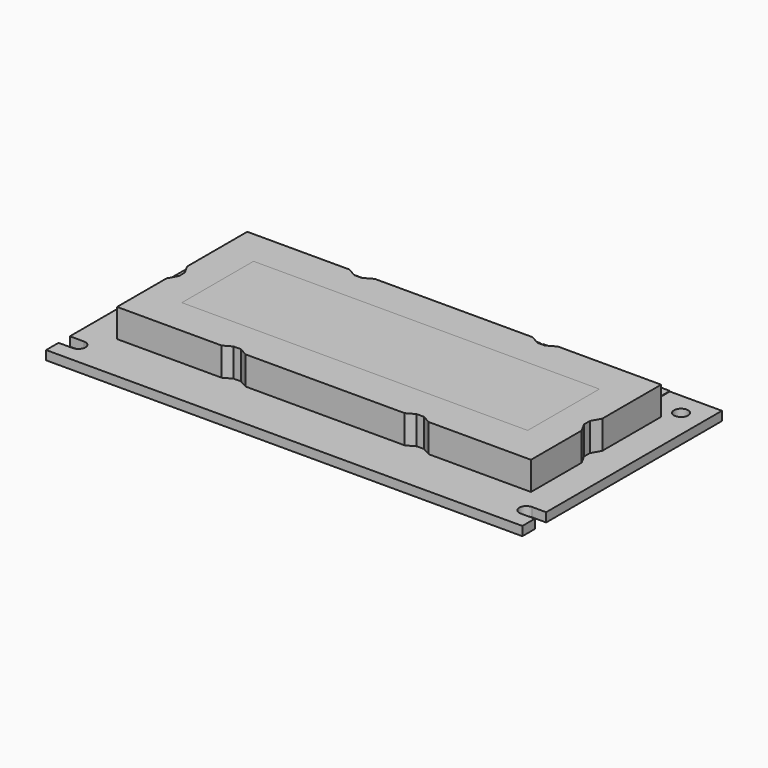
from build123d import *

# Parameters (mm, degrees)
SKETCH_R               = 1.25
SKETCH_R_2             = 0.5
PAD_DEPTH              = 1.6
BOX020_W               = 61
BOX020_H               = 15.8
BOX020_DEPTH           = 2
BOX019_W               = 61
BOX019_H               = 15.8
BOX019_DEPTH           = 2
BOX003_W               = 5
BOX003_H               = 5
BOX003_DEPTH           = 5
BOX003_PLACEMENT_ANGLE = 29
BOX002_W               = 5
BOX002_H               = 5
BOX002_DEPTH           = 5
BOX002_PLACEMENT_ANGLE = 61
BOX001_W               = 5
BOX001_H               = 5
BOX001_DEPTH           = 5
BOX009_W               = 5
BOX009_H               = 5
BOX009_DEPTH           = 5
BOX009_PLACEMENT_ANGLE = 29
BOX008_W               = 5
BOX008_H               = 5
BOX008_DEPTH           = 5
BOX008_PLACEMENT_ANGLE = 61
BOX007_W               = 5
BOX007_H               = 5
BOX007_DEPTH           = 5
CUT005_PLACEMENT_ANGLE = 90
BOX018_W               = 5
BOX018_H               = 5
BOX018_DEPTH           = 5
BOX018_PLACEMENT_ANGLE = 29
BOX017_W               = 5
BOX017_H               = 5
BOX017_DEPTH           = 5
BOX017_PLACEMENT_ANGLE = 61
BOX016_W               = 5
BOX016_H               = 5
BOX016_DEPTH           = 5
CUT011_PLACEMENT_ANGLE = 90
BOX006_W               = 5
BOX006_H               = 5
BOX006_DEPTH           = 5
BOX006_PLACEMENT_ANGLE = 29
BOX005_W               = 5
BOX005_H               = 5
BOX005_DEPTH           = 5
BOX005_PLACEMENT_ANGLE = 61
BOX004_W               = 5
BOX004_H               = 5
BOX004_DEPTH           = 5
CUT003_PLACEMENT_ANGLE = 180
BOX012_W               = 5
BOX012_H               = 5
BOX012_DEPTH           = 5
BOX012_PLACEMENT_ANGLE = 29
BOX011_W               = 5
BOX011_H               = 5
BOX011_DEPTH           = 5
BOX011_PLACEMENT_ANGLE = 61
BOX010_W               = 5
BOX010_H               = 5
BOX010_DEPTH           = 5
CUT007_PLACEMENT_ANGLE = -90
BOX015_W               = 5
BOX015_H               = 5
BOX015_DEPTH           = 5
BOX015_PLACEMENT_ANGLE = 29
BOX014_W               = 5
BOX014_H               = 5
BOX014_DEPTH           = 5
BOX014_PLACEMENT_ANGLE = 61
BOX013_W               = 5
BOX013_H               = 5
BOX013_DEPTH           = 5
CUT009_PLACEMENT_ANGLE = -90
BOX_W                  = 73
BOX_H                  = 28.7
BOX_DEPTH              = 5
CYLINDER002_R          = 0.5
CYLINDER002_DEPTH      = 0.1
BOX021_W               = 2
BOX021_H               = 2.54
BOX021_DEPTH           = 0.1
CYLINDER001_R          = 0.5
CYLINDER001_DEPTH      = 0.1
CYLINDER_R             = 1
CYLINDER_DEPTH         = 0.1
CYLINDER005_R          = 0.5
CYLINDER005_DEPTH      = 0.1
BOX022_W               = 2
BOX022_H               = 2.54
BOX022_DEPTH           = 0.1
CYLINDER004_R          = 0.5
CYLINDER004_DEPTH      = 0.1
CYLINDER003_R          = 1
CYLINDER003_DEPTH      = 0.1
CYLINDER008_R          = 0.5
CYLINDER008_DEPTH      = 0.1
BOX023_W               = 2
BOX023_H               = 2.54
BOX023_DEPTH           = 0.1
CYLINDER007_R          = 0.5
CYLINDER007_DEPTH      = 0.1
CYLINDER006_R          = 1
CYLINDER006_DEPTH      = 0.1
CYLINDER011_R          = 0.5
CYLINDER011_DEPTH      = 0.1
BOX024_W               = 2
BOX024_H               = 2.54
BOX024_DEPTH           = 0.1
CYLINDER010_R          = 0.5
CYLINDER010_DEPTH      = 0.1
CYLINDER009_R          = 1
CYLINDER009_DEPTH      = 0.1
CYLINDER014_R          = 0.5
CYLINDER014_DEPTH      = 0.1
BOX025_W               = 2
BOX025_H               = 2.54
BOX025_DEPTH           = 0.1
CYLINDER013_R          = 0.5
CYLINDER013_DEPTH      = 0.1
CYLINDER012_R          = 1
CYLINDER012_DEPTH      = 0.1
CYLINDER017_R          = 0.5
CYLINDER017_DEPTH      = 0.1
BOX026_W               = 2
BOX026_H               = 2.54
BOX026_DEPTH           = 0.1
CYLINDER016_R          = 0.5
CYLINDER016_DEPTH      = 0.1
CYLINDER015_R          = 1
CYLINDER015_DEPTH      = 0.1
CYLINDER020_R          = 0.5
CYLINDER020_DEPTH      = 0.1
BOX027_W               = 2
BOX027_H               = 2.54
BOX027_DEPTH           = 0.1
CYLINDER019_R          = 0.5
CYLINDER019_DEPTH      = 0.1
CYLINDER018_R          = 1
CYLINDER018_DEPTH      = 0.1
CYLINDER023_R          = 0.5
CYLINDER023_DEPTH      = 0.1
BOX028_W               = 2
BOX028_H               = 2.54
BOX028_DEPTH           = 0.1
CYLINDER022_R          = 0.5
CYLINDER022_DEPTH      = 0.1
CYLINDER021_R          = 1
CYLINDER021_DEPTH      = 0.1
CYLINDER026_R          = 0.5
CYLINDER026_DEPTH      = 0.1
BOX029_W               = 2
BOX029_H               = 2.54
BOX029_DEPTH           = 0.1
CYLINDER025_R          = 0.5
CYLINDER025_DEPTH      = 0.1
CYLINDER024_R          = 1
CYLINDER024_DEPTH      = 0.1
CYLINDER029_R          = 0.5
CYLINDER029_DEPTH      = 0.1
BOX030_W               = 2
BOX030_H               = 2.54
BOX030_DEPTH           = 0.1
CYLINDER028_R          = 0.5
CYLINDER028_DEPTH      = 0.1
CYLINDER027_R          = 1
CYLINDER027_DEPTH      = 0.1
CYLINDER032_R          = 0.5
CYLINDER032_DEPTH      = 0.1
BOX031_W               = 2
BOX031_H               = 2.54
BOX031_DEPTH           = 0.1
CYLINDER031_R          = 0.5
CYLINDER031_DEPTH      = 0.1
CYLINDER030_R          = 1
CYLINDER030_DEPTH      = 0.1
CYLINDER035_R          = 0.5
CYLINDER035_DEPTH      = 0.1
BOX032_W               = 2
BOX032_H               = 2.54
BOX032_DEPTH           = 0.1
CYLINDER034_R          = 0.5
CYLINDER034_DEPTH      = 0.1
CYLINDER033_R          = 1
CYLINDER033_DEPTH      = 0.1
CYLINDER038_R          = 0.5
CYLINDER038_DEPTH      = 0.1
BOX033_W               = 2
BOX033_H               = 2.54
BOX033_DEPTH           = 0.1
CYLINDER037_R          = 0.5
CYLINDER037_DEPTH      = 0.1
CYLINDER036_R          = 1
CYLINDER036_DEPTH      = 0.1
CYLINDER041_R          = 0.5
CYLINDER041_DEPTH      = 0.1
BOX034_W               = 2
BOX034_H               = 2.54
BOX034_DEPTH           = 0.1
CYLINDER040_R          = 0.5
CYLINDER040_DEPTH      = 0.1
CYLINDER039_R          = 1
CYLINDER039_DEPTH      = 0.1
BOX035_W               = 14
BOX035_H               = 2
BOX035_DEPTH           = 4.4
BOX036_W               = 14
BOX036_H               = 2
BOX036_DEPTH           = 4.4
BOX037_W               = 14
BOX037_H               = 2
BOX037_DEPTH           = 4.4
BOX038_W               = 14
BOX038_H               = 2
BOX038_DEPTH           = 4.4


with BuildPart() as body:
    # Sketch → Pad (new body)
    with BuildSketch(Plane.XY):
        with BuildLine():
            Line((-40.8, 2.54), (43.2, 2.54))
            Line((43.2, 2.54), (43.2, -36.21))
            Line((40.7, -36.21), (43.2, -36.21))
            ThreePointArc((40.7, -36.21), (39.45, -37.46), (40.7, -38.71))
            Line((43.2, -38.71), (40.7, -38.71))
            Line((43.2, -41.46), (43.2, -38.71))
            Line((-40.8, -41.46), (43.2, -41.46))
            Line((-40.8, -38.71), (-40.8, -41.46))
            Line((-38.3, -38.71), (-40.8, -38.71))
            ThreePointArc((-38.3, -38.71), (-37.05, -37.46), (-38.3, -36.21))
            Line((-40.8, -36.21), (-38.3, -36.21))
            Line((-40.8, 2.54), (-40.8, -36.21))
        make_face()
        with Locations((39.2, -1.46)):
            Circle(SKETCH_R, mode=Mode.SUBTRACT)
        with Locations((-36.8, -1.46)):
            Circle(SKETCH_R, mode=Mode.SUBTRACT)
        Circle(SKETCH_R_2, mode=Mode.SUBTRACT)
        with Locations((2.54, 0)):
            Circle(SKETCH_R_2, mode=Mode.SUBTRACT)
        with Locations((5.08, 0)):
            Circle(SKETCH_R_2, mode=Mode.SUBTRACT)
        with Locations((7.62, 0)):
            Circle(SKETCH_R_2, mode=Mode.SUBTRACT)
        with Locations((10.16, 0)):
            Circle(SKETCH_R_2, mode=Mode.SUBTRACT)
        with Locations((12.7, 0)):
            Circle(SKETCH_R_2, mode=Mode.SUBTRACT)
        with Locations((15.24, 0)):
            Circle(SKETCH_R_2, mode=Mode.SUBTRACT)
        with Locations((17.78, 0)):
            Circle(SKETCH_R_2, mode=Mode.SUBTRACT)
        with Locations((22.86, 0)):
            Circle(SKETCH_R_2, mode=Mode.SUBTRACT)
        with Locations((25.4, 0)):
            Circle(SKETCH_R_2, mode=Mode.SUBTRACT)
        with Locations((20.32, 0)):
            Circle(SKETCH_R_2, mode=Mode.SUBTRACT)
        with Locations((27.94, 0)):
            Circle(SKETCH_R_2, mode=Mode.SUBTRACT)
        with Locations((30.48, 0)):
            Circle(SKETCH_R_2, mode=Mode.SUBTRACT)
        with Locations((33.02, 0)):
            Circle(SKETCH_R_2, mode=Mode.SUBTRACT)
    extrude(amount=PAD_DEPTH)


with BuildPart() as body_1:
    # Body placement: moved
    add(body.part.moved(Location((0, 0, 4.4))))


with BuildPart() as led_active_area:
    # Box020 → Box020 (new body)
    with BuildSketch(Plane(origin=(-29.02, -26.25, 9), x_dir=(1, 0, 0), z_dir=(0, 0, 1))):
        with Locations((30.5, 7.9)):
            Rectangle(BOX020_W, BOX020_H)
    extrude(amount=BOX020_DEPTH)


with BuildPart() as led_active_area_cut_out:
    # Box019 → Box019 (new body)
    with BuildSketch(Plane(origin=(-29.02, -26.25, 4.6), x_dir=(1, 0, 0), z_dir=(0, 0, 1))):
        with Locations((30.5, 7.9)):
            Rectangle(BOX019_W, BOX019_H)
    extrude(amount=BOX019_DEPTH)


with BuildPart() as kub003:
    # Box003 → Box003 (new body)
    with BuildSketch(Plane.XY):
        with Locations((2.5, 2.5)):
            Rectangle(BOX003_W, BOX003_H)
    extrude(amount=BOX003_DEPTH)


with BuildPart() as kub003_1:
    # Box003 placement: moved
    add(kub003.part.moved(Location((5, 7, 1.6))).rotate(Axis((5, 7, 1.6), (0, 0, 1)), BOX003_PLACEMENT_ANGLE))


with BuildPart() as kub002:
    # Box002 → Box002 (new body)
    with BuildSketch(Plane.XY):
        with Locations((2.5, 2.5)):
            Rectangle(BOX002_W, BOX002_H)
    extrude(amount=BOX002_DEPTH)


with BuildPart() as kub002_1:
    # Box002 placement: moved
    add(kub002.part.moved(Location((7, -1, 1.6))).rotate(Axis((7, -1, 1.6), (0, 0, 1)), BOX002_PLACEMENT_ANGLE))


with BuildPart() as cut001:
    # Box001 → Box001 (new body)
    with BuildSketch(Plane(origin=(0, 4, 1.6), x_dir=(1, 0, 0), z_dir=(0, 0, 1))):
        with Locations((2.5, 2.5)):
            Rectangle(BOX001_W, BOX001_H)
    extrude(amount=BOX001_DEPTH)

    # Cut: cut Kub002
    add(kub002_1.part, mode=Mode.SUBTRACT)

    # Cut001: cut Kub003
    add(kub003_1.part, mode=Mode.SUBTRACT)


with BuildPart() as cut001_1:
    # Cut001 placement: moved
    add(cut001.part.moved(Location((-39.3, -26, 0))))


with BuildPart() as kub009:
    # Box009 → Box009 (new body)
    with BuildSketch(Plane.XY):
        with Locations((2.5, 2.5)):
            Rectangle(BOX009_W, BOX009_H)
    extrude(amount=BOX009_DEPTH)


with BuildPart() as kub009_1:
    # Box009 placement: moved
    add(kub009.part.moved(Location((5, 7, 1.6))).rotate(Axis((5, 7, 1.6), (0, 0, 1)), BOX009_PLACEMENT_ANGLE))


with BuildPart() as kub008:
    # Box008 → Box008 (new body)
    with BuildSketch(Plane.XY):
        with Locations((2.5, 2.5)):
            Rectangle(BOX008_W, BOX008_H)
    extrude(amount=BOX008_DEPTH)


with BuildPart() as kub008_1:
    # Box008 placement: moved
    add(kub008.part.moved(Location((7, -1, 1.6))).rotate(Axis((7, -1, 1.6), (0, 0, 1)), BOX008_PLACEMENT_ANGLE))


with BuildPart() as cut005:
    # Box007 → Box007 (new body)
    with BuildSketch(Plane(origin=(0, 4, 1.6), x_dir=(1, 0, 0), z_dir=(0, 0, 1))):
        with Locations((2.5, 2.5)):
            Rectangle(BOX007_W, BOX007_H)
    extrude(amount=BOX007_DEPTH)

    # Cut004: cut Kub008
    add(kub008_1.part, mode=Mode.SUBTRACT)

    # Cut005: cut Kub009
    add(kub009_1.part, mode=Mode.SUBTRACT)


with BuildPart() as cut005_1:
    # Cut005 placement: moved
    add(cut005.part.moved(Location((-8.3, -37, 0))).rotate(Axis((-8.3, -37, 0), (0, 0, 1)), CUT005_PLACEMENT_ANGLE))


with BuildPart() as kub018:
    # Box018 → Box018 (new body)
    with BuildSketch(Plane.XY):
        with Locations((2.5, 2.5)):
            Rectangle(BOX018_W, BOX018_H)
    extrude(amount=BOX018_DEPTH)


with BuildPart() as kub018_1:
    # Box018 placement: moved
    add(kub018.part.moved(Location((5, 7, 1.6))).rotate(Axis((5, 7, 1.6), (0, 0, 1)), BOX018_PLACEMENT_ANGLE))


with BuildPart() as kub017:
    # Box017 → Box017 (new body)
    with BuildSketch(Plane.XY):
        with Locations((2.5, 2.5)):
            Rectangle(BOX017_W, BOX017_H)
    extrude(amount=BOX017_DEPTH)


with BuildPart() as kub017_1:
    # Box017 placement: moved
    add(kub017.part.moved(Location((7, -1, 1.6))).rotate(Axis((7, -1, 1.6), (0, 0, 1)), BOX017_PLACEMENT_ANGLE))


with BuildPart() as cut011:
    # Box016 → Box016 (new body)
    with BuildSketch(Plane(origin=(0, 4, 1.6), x_dir=(1, 0, 0), z_dir=(0, 0, 1))):
        with Locations((2.5, 2.5)):
            Rectangle(BOX016_W, BOX016_H)
    extrude(amount=BOX016_DEPTH)

    # Cut010: cut Kub017
    add(kub017_1.part, mode=Mode.SUBTRACT)

    # Cut011: cut Kub018
    add(kub018_1.part, mode=Mode.SUBTRACT)


with BuildPart() as cut011_1:
    # Cut011 placement: moved
    add(cut011.part.moved(Location((24, -37, 0))).rotate(Axis((24, -37, 0), (0, 0, 1)), CUT011_PLACEMENT_ANGLE))


with BuildPart() as kub006:
    # Box006 → Box006 (new body)
    with BuildSketch(Plane.XY):
        with Locations((2.5, 2.5)):
            Rectangle(BOX006_W, BOX006_H)
    extrude(amount=BOX006_DEPTH)


with BuildPart() as kub006_1:
    # Box006 placement: moved
    add(kub006.part.moved(Location((5, 7, 1.6))).rotate(Axis((5, 7, 1.6), (0, 0, 1)), BOX006_PLACEMENT_ANGLE))


with BuildPart() as kub005:
    # Box005 → Box005 (new body)
    with BuildSketch(Plane.XY):
        with Locations((2.5, 2.5)):
            Rectangle(BOX005_W, BOX005_H)
    extrude(amount=BOX005_DEPTH)


with BuildPart() as kub005_1:
    # Box005 placement: moved
    add(kub005.part.moved(Location((7, -1, 1.6))).rotate(Axis((7, -1, 1.6), (0, 0, 1)), BOX005_PLACEMENT_ANGLE))


with BuildPart() as cut003:
    # Box004 → Box004 (new body)
    with BuildSketch(Plane(origin=(0, 4, 1.6), x_dir=(1, 0, 0), z_dir=(0, 0, 1))):
        with Locations((2.5, 2.5)):
            Rectangle(BOX004_W, BOX004_H)
    extrude(amount=BOX004_DEPTH)

    # Cut002: cut Kub005
    add(kub005_1.part, mode=Mode.SUBTRACT)

    # Cut003: cut Kub006
    add(kub006_1.part, mode=Mode.SUBTRACT)


with BuildPart() as cut003_1:
    # Cut003 placement: moved
    add(cut003.part.moved(Location((41.9, -13, 0))).rotate(Axis((41.9, -13, 0), (0, 0, 1)), CUT003_PLACEMENT_ANGLE))


with BuildPart() as kub012:
    # Box012 → Box012 (new body)
    with BuildSketch(Plane.XY):
        with Locations((2.5, 2.5)):
            Rectangle(BOX012_W, BOX012_H)
    extrude(amount=BOX012_DEPTH)


with BuildPart() as kub012_1:
    # Box012 placement: moved
    add(kub012.part.moved(Location((5, 7, 1.6))).rotate(Axis((5, 7, 1.6), (0, 0, 1)), BOX012_PLACEMENT_ANGLE))


with BuildPart() as kub011:
    # Box011 → Box011 (new body)
    with BuildSketch(Plane.XY):
        with Locations((2.5, 2.5)):
            Rectangle(BOX011_W, BOX011_H)
    extrude(amount=BOX011_DEPTH)


with BuildPart() as kub011_1:
    # Box011 placement: moved
    add(kub011.part.moved(Location((7, -1, 1.6))).rotate(Axis((7, -1, 1.6), (0, 0, 1)), BOX011_PLACEMENT_ANGLE))


with BuildPart() as cut007:
    # Box010 → Box010 (new body)
    with BuildSketch(Plane(origin=(0, 4, 1.6), x_dir=(1, 0, 0), z_dir=(0, 0, 1))):
        with Locations((2.5, 2.5)):
            Rectangle(BOX010_W, BOX010_H)
    extrude(amount=BOX010_DEPTH)

    # Cut006: cut Kub011
    add(kub011_1.part, mode=Mode.SUBTRACT)

    # Cut007: cut Kub012
    add(kub012_1.part, mode=Mode.SUBTRACT)


with BuildPart() as cut007_1:
    # Cut007 placement: moved
    add(cut007.part.moved(Location((11, 0, 0))).rotate(Axis((11, 0, 0), (0, 0, 1)), CUT007_PLACEMENT_ANGLE))


with BuildPart() as kub015:
    # Box015 → Box015 (new body)
    with BuildSketch(Plane.XY):
        with Locations((2.5, 2.5)):
            Rectangle(BOX015_W, BOX015_H)
    extrude(amount=BOX015_DEPTH)


with BuildPart() as kub015_1:
    # Box015 placement: moved
    add(kub015.part.moved(Location((5, 7, 1.6))).rotate(Axis((5, 7, 1.6), (0, 0, 1)), BOX015_PLACEMENT_ANGLE))


with BuildPart() as kub014:
    # Box014 → Box014 (new body)
    with BuildSketch(Plane.XY):
        with Locations((2.5, 2.5)):
            Rectangle(BOX014_W, BOX014_H)
    extrude(amount=BOX014_DEPTH)


with BuildPart() as kub014_1:
    # Box014 placement: moved
    add(kub014.part.moved(Location((7, -1, 1.6))).rotate(Axis((7, -1, 1.6), (0, 0, 1)), BOX014_PLACEMENT_ANGLE))


with BuildPart() as cut009:
    # Box013 → Box013 (new body)
    with BuildSketch(Plane(origin=(0, 4, 1.6), x_dir=(1, 0, 0), z_dir=(0, 0, 1))):
        with Locations((2.5, 2.5)):
            Rectangle(BOX013_W, BOX013_H)
    extrude(amount=BOX013_DEPTH)

    # Cut008: cut Kub014
    add(kub014_1.part, mode=Mode.SUBTRACT)

    # Cut009: cut Kub015
    add(kub015_1.part, mode=Mode.SUBTRACT)


with BuildPart() as cut009_1:
    # Cut009 placement: moved
    add(cut009.part.moved(Location((-21.3, 0, 0))).rotate(Axis((-21.3, 0, 0), (0, 0, 1)), CUT009_PLACEMENT_ANGLE))


with BuildPart() as cut018:
    # Box → Box (new body)
    with BuildSketch(Plane(origin=(-35.2, -32.81, 1.6), x_dir=(1, 0, 0), z_dir=(0, 0, 1))):
        with Locations((36.5, 14.35)):
            Rectangle(BOX_W, BOX_H)
    extrude(amount=BOX_DEPTH)

    # Cut012: cut Cut009
    add(cut009_1.part, mode=Mode.SUBTRACT)

    # Cut013: cut Cut007
    add(cut007_1.part, mode=Mode.SUBTRACT)

    # Cut014: cut Cut003
    add(cut003_1.part, mode=Mode.SUBTRACT)

    # Cut015: cut Cut011
    add(cut011_1.part, mode=Mode.SUBTRACT)

    # Cut016: cut Cut005
    add(cut005_1.part, mode=Mode.SUBTRACT)

    # Cut017: cut Cut001
    add(cut001_1.part, mode=Mode.SUBTRACT)

    # Cut018: cut LED active area cut out
    add(led_active_area_cut_out.part, mode=Mode.SUBTRACT)


with BuildPart() as cut018_1:
    # Cut018 placement: moved
    add(cut018.part.moved(Location((0, 0, 4.4))))


with BuildPart() as cylinder002:
    # Cylinder002 → Cylinder002 (new body)
    with BuildSketch(Plane.XY.offset(1.6)):
        Circle(CYLINDER002_R)
    extrude(amount=CYLINDER002_DEPTH)


with BuildPart() as cut020:
    # Box021 → Box021 (new body)
    with BuildSketch(Plane(origin=(-1, 0, 1.6), x_dir=(1, 0, 0), z_dir=(0, 0, 1))):
        with Locations((1, 1.27)):
            Rectangle(BOX021_W, BOX021_H)
    extrude(amount=BOX021_DEPTH)

    # Cut020: cut Cylinder002
    add(cylinder002.part, mode=Mode.SUBTRACT)


with BuildPart() as cylinder001:
    # Cylinder001 → Cylinder001 (new body)
    with BuildSketch(Plane.XY.offset(1.6)):
        Circle(CYLINDER001_R)
    extrude(amount=CYLINDER001_DEPTH)


with BuildPart() as fusion:
    # Cylinder → Cylinder (new body)
    with BuildSketch(Plane.XY.offset(1.6)):
        Circle(CYLINDER_R)
    extrude(amount=CYLINDER_DEPTH)

    # Cut019: cut Cylinder001
    add(cylinder001.part, mode=Mode.SUBTRACT)

    # Fusion: union Cut020
    add(cut020.part)


with BuildPart() as fusion_1:
    # Fusion placement: moved
    add(fusion.part.moved(Location((0, 0, 4.4))))


with BuildPart() as cylinder005:
    # Cylinder005 → Cylinder005 (new body)
    with BuildSketch(Plane.XY.offset(1.6)):
        Circle(CYLINDER005_R)
    extrude(amount=CYLINDER005_DEPTH)


with BuildPart() as cut022:
    # Box022 → Box022 (new body)
    with BuildSketch(Plane(origin=(-1, 0, 1.6), x_dir=(1, 0, 0), z_dir=(0, 0, 1))):
        with Locations((1, 1.27)):
            Rectangle(BOX022_W, BOX022_H)
    extrude(amount=BOX022_DEPTH)

    # Cut022: cut Cylinder005
    add(cylinder005.part, mode=Mode.SUBTRACT)


with BuildPart() as cylinder004:
    # Cylinder004 → Cylinder004 (new body)
    with BuildSketch(Plane.XY.offset(1.6)):
        Circle(CYLINDER004_R)
    extrude(amount=CYLINDER004_DEPTH)


with BuildPart() as fusion001:
    # Cylinder003 → Cylinder003 (new body)
    with BuildSketch(Plane.XY.offset(1.6)):
        Circle(CYLINDER003_R)
    extrude(amount=CYLINDER003_DEPTH)

    # Cut021: cut Cylinder004
    add(cylinder004.part, mode=Mode.SUBTRACT)

    # Fusion001: union Cut022
    add(cut022.part)


with BuildPart() as fusion001_1:
    # Fusion001 placement: moved
    add(fusion001.part.moved(Location((2.54, 0, 4.4))))


with BuildPart() as cylinder008:
    # Cylinder008 → Cylinder008 (new body)
    with BuildSketch(Plane.XY.offset(1.6)):
        Circle(CYLINDER008_R)
    extrude(amount=CYLINDER008_DEPTH)


with BuildPart() as cut024:
    # Box023 → Box023 (new body)
    with BuildSketch(Plane(origin=(-1, 0, 1.6), x_dir=(1, 0, 0), z_dir=(0, 0, 1))):
        with Locations((1, 1.27)):
            Rectangle(BOX023_W, BOX023_H)
    extrude(amount=BOX023_DEPTH)

    # Cut024: cut Cylinder008
    add(cylinder008.part, mode=Mode.SUBTRACT)


with BuildPart() as cylinder007:
    # Cylinder007 → Cylinder007 (new body)
    with BuildSketch(Plane.XY.offset(1.6)):
        Circle(CYLINDER007_R)
    extrude(amount=CYLINDER007_DEPTH)


with BuildPart() as fusion002:
    # Cylinder006 → Cylinder006 (new body)
    with BuildSketch(Plane.XY.offset(1.6)):
        Circle(CYLINDER006_R)
    extrude(amount=CYLINDER006_DEPTH)

    # Cut023: cut Cylinder007
    add(cylinder007.part, mode=Mode.SUBTRACT)

    # Fusion002: union Cut024
    add(cut024.part)


with BuildPart() as fusion002_1:
    # Fusion002 placement: moved
    add(fusion002.part.moved(Location((5.08, 0, 4.4))))


with BuildPart() as cylinder011:
    # Cylinder011 → Cylinder011 (new body)
    with BuildSketch(Plane.XY.offset(1.6)):
        Circle(CYLINDER011_R)
    extrude(amount=CYLINDER011_DEPTH)


with BuildPart() as cut026:
    # Box024 → Box024 (new body)
    with BuildSketch(Plane(origin=(-1, 0, 1.6), x_dir=(1, 0, 0), z_dir=(0, 0, 1))):
        with Locations((1, 1.27)):
            Rectangle(BOX024_W, BOX024_H)
    extrude(amount=BOX024_DEPTH)

    # Cut026: cut Cylinder011
    add(cylinder011.part, mode=Mode.SUBTRACT)


with BuildPart() as cylinder010:
    # Cylinder010 → Cylinder010 (new body)
    with BuildSketch(Plane.XY.offset(1.6)):
        Circle(CYLINDER010_R)
    extrude(amount=CYLINDER010_DEPTH)


with BuildPart() as fusion003:
    # Cylinder009 → Cylinder009 (new body)
    with BuildSketch(Plane.XY.offset(1.6)):
        Circle(CYLINDER009_R)
    extrude(amount=CYLINDER009_DEPTH)

    # Cut025: cut Cylinder010
    add(cylinder010.part, mode=Mode.SUBTRACT)

    # Fusion003: union Cut026
    add(cut026.part)


with BuildPart() as fusion003_1:
    # Fusion003 placement: moved
    add(fusion003.part.moved(Location((7.62, 0, 4.4))))


with BuildPart() as cylinder014:
    # Cylinder014 → Cylinder014 (new body)
    with BuildSketch(Plane.XY.offset(1.6)):
        Circle(CYLINDER014_R)
    extrude(amount=CYLINDER014_DEPTH)


with BuildPart() as cut028:
    # Box025 → Box025 (new body)
    with BuildSketch(Plane(origin=(-1, 0, 1.6), x_dir=(1, 0, 0), z_dir=(0, 0, 1))):
        with Locations((1, 1.27)):
            Rectangle(BOX025_W, BOX025_H)
    extrude(amount=BOX025_DEPTH)

    # Cut028: cut Cylinder014
    add(cylinder014.part, mode=Mode.SUBTRACT)


with BuildPart() as cylinder013:
    # Cylinder013 → Cylinder013 (new body)
    with BuildSketch(Plane.XY.offset(1.6)):
        Circle(CYLINDER013_R)
    extrude(amount=CYLINDER013_DEPTH)


with BuildPart() as fusion004:
    # Cylinder012 → Cylinder012 (new body)
    with BuildSketch(Plane.XY.offset(1.6)):
        Circle(CYLINDER012_R)
    extrude(amount=CYLINDER012_DEPTH)

    # Cut027: cut Cylinder013
    add(cylinder013.part, mode=Mode.SUBTRACT)

    # Fusion004: union Cut028
    add(cut028.part)


with BuildPart() as fusion004_1:
    # Fusion004 placement: moved
    add(fusion004.part.moved(Location((10.16, 0, 4.4))))


with BuildPart() as cylinder017:
    # Cylinder017 → Cylinder017 (new body)
    with BuildSketch(Plane.XY.offset(1.6)):
        Circle(CYLINDER017_R)
    extrude(amount=CYLINDER017_DEPTH)


with BuildPart() as cut030:
    # Box026 → Box026 (new body)
    with BuildSketch(Plane(origin=(-1, 0, 1.6), x_dir=(1, 0, 0), z_dir=(0, 0, 1))):
        with Locations((1, 1.27)):
            Rectangle(BOX026_W, BOX026_H)
    extrude(amount=BOX026_DEPTH)

    # Cut030: cut Cylinder017
    add(cylinder017.part, mode=Mode.SUBTRACT)


with BuildPart() as cylinder016:
    # Cylinder016 → Cylinder016 (new body)
    with BuildSketch(Plane.XY.offset(1.6)):
        Circle(CYLINDER016_R)
    extrude(amount=CYLINDER016_DEPTH)


with BuildPart() as fusion005:
    # Cylinder015 → Cylinder015 (new body)
    with BuildSketch(Plane.XY.offset(1.6)):
        Circle(CYLINDER015_R)
    extrude(amount=CYLINDER015_DEPTH)

    # Cut029: cut Cylinder016
    add(cylinder016.part, mode=Mode.SUBTRACT)

    # Fusion005: union Cut030
    add(cut030.part)


with BuildPart() as fusion005_1:
    # Fusion005 placement: moved
    add(fusion005.part.moved(Location((12.7, 0, 4.4))))


with BuildPart() as cylinder020:
    # Cylinder020 → Cylinder020 (new body)
    with BuildSketch(Plane.XY.offset(1.6)):
        Circle(CYLINDER020_R)
    extrude(amount=CYLINDER020_DEPTH)


with BuildPart() as cut032:
    # Box027 → Box027 (new body)
    with BuildSketch(Plane(origin=(-1, 0, 1.6), x_dir=(1, 0, 0), z_dir=(0, 0, 1))):
        with Locations((1, 1.27)):
            Rectangle(BOX027_W, BOX027_H)
    extrude(amount=BOX027_DEPTH)

    # Cut032: cut Cylinder020
    add(cylinder020.part, mode=Mode.SUBTRACT)


with BuildPart() as cylinder019:
    # Cylinder019 → Cylinder019 (new body)
    with BuildSketch(Plane.XY.offset(1.6)):
        Circle(CYLINDER019_R)
    extrude(amount=CYLINDER019_DEPTH)


with BuildPart() as fusion006:
    # Cylinder018 → Cylinder018 (new body)
    with BuildSketch(Plane.XY.offset(1.6)):
        Circle(CYLINDER018_R)
    extrude(amount=CYLINDER018_DEPTH)

    # Cut031: cut Cylinder019
    add(cylinder019.part, mode=Mode.SUBTRACT)

    # Fusion006: union Cut032
    add(cut032.part)


with BuildPart() as fusion006_1:
    # Fusion006 placement: moved
    add(fusion006.part.moved(Location((15.24, 0, 4.4))))


with BuildPart() as cylinder023:
    # Cylinder023 → Cylinder023 (new body)
    with BuildSketch(Plane.XY.offset(1.6)):
        Circle(CYLINDER023_R)
    extrude(amount=CYLINDER023_DEPTH)


with BuildPart() as cut034:
    # Box028 → Box028 (new body)
    with BuildSketch(Plane(origin=(-1, 0, 1.6), x_dir=(1, 0, 0), z_dir=(0, 0, 1))):
        with Locations((1, 1.27)):
            Rectangle(BOX028_W, BOX028_H)
    extrude(amount=BOX028_DEPTH)

    # Cut034: cut Cylinder023
    add(cylinder023.part, mode=Mode.SUBTRACT)


with BuildPart() as cylinder022:
    # Cylinder022 → Cylinder022 (new body)
    with BuildSketch(Plane.XY.offset(1.6)):
        Circle(CYLINDER022_R)
    extrude(amount=CYLINDER022_DEPTH)


with BuildPart() as fusion007:
    # Cylinder021 → Cylinder021 (new body)
    with BuildSketch(Plane.XY.offset(1.6)):
        Circle(CYLINDER021_R)
    extrude(amount=CYLINDER021_DEPTH)

    # Cut033: cut Cylinder022
    add(cylinder022.part, mode=Mode.SUBTRACT)

    # Fusion007: union Cut034
    add(cut034.part)


with BuildPart() as fusion007_1:
    # Fusion007 placement: moved
    add(fusion007.part.moved(Location((17.78, 0, 4.4))))


with BuildPart() as cylinder026:
    # Cylinder026 → Cylinder026 (new body)
    with BuildSketch(Plane.XY.offset(1.6)):
        Circle(CYLINDER026_R)
    extrude(amount=CYLINDER026_DEPTH)


with BuildPart() as cut036:
    # Box029 → Box029 (new body)
    with BuildSketch(Plane(origin=(-1, 0, 1.6), x_dir=(1, 0, 0), z_dir=(0, 0, 1))):
        with Locations((1, 1.27)):
            Rectangle(BOX029_W, BOX029_H)
    extrude(amount=BOX029_DEPTH)

    # Cut036: cut Cylinder026
    add(cylinder026.part, mode=Mode.SUBTRACT)


with BuildPart() as cylinder025:
    # Cylinder025 → Cylinder025 (new body)
    with BuildSketch(Plane.XY.offset(1.6)):
        Circle(CYLINDER025_R)
    extrude(amount=CYLINDER025_DEPTH)


with BuildPart() as fusion008:
    # Cylinder024 → Cylinder024 (new body)
    with BuildSketch(Plane.XY.offset(1.6)):
        Circle(CYLINDER024_R)
    extrude(amount=CYLINDER024_DEPTH)

    # Cut035: cut Cylinder025
    add(cylinder025.part, mode=Mode.SUBTRACT)

    # Fusion008: union Cut036
    add(cut036.part)


with BuildPart() as fusion008_1:
    # Fusion008 placement: moved
    add(fusion008.part.moved(Location((20.32, 0, 4.4))))


with BuildPart() as cylinder029:
    # Cylinder029 → Cylinder029 (new body)
    with BuildSketch(Plane.XY.offset(1.6)):
        Circle(CYLINDER029_R)
    extrude(amount=CYLINDER029_DEPTH)


with BuildPart() as cut038:
    # Box030 → Box030 (new body)
    with BuildSketch(Plane(origin=(-1, 0, 1.6), x_dir=(1, 0, 0), z_dir=(0, 0, 1))):
        with Locations((1, 1.27)):
            Rectangle(BOX030_W, BOX030_H)
    extrude(amount=BOX030_DEPTH)

    # Cut038: cut Cylinder029
    add(cylinder029.part, mode=Mode.SUBTRACT)


with BuildPart() as cylinder028:
    # Cylinder028 → Cylinder028 (new body)
    with BuildSketch(Plane.XY.offset(1.6)):
        Circle(CYLINDER028_R)
    extrude(amount=CYLINDER028_DEPTH)


with BuildPart() as fusion009:
    # Cylinder027 → Cylinder027 (new body)
    with BuildSketch(Plane.XY.offset(1.6)):
        Circle(CYLINDER027_R)
    extrude(amount=CYLINDER027_DEPTH)

    # Cut037: cut Cylinder028
    add(cylinder028.part, mode=Mode.SUBTRACT)

    # Fusion009: union Cut038
    add(cut038.part)


with BuildPart() as fusion009_1:
    # Fusion009 placement: moved
    add(fusion009.part.moved(Location((22.86, 0, 4.4))))


with BuildPart() as cylinder032:
    # Cylinder032 → Cylinder032 (new body)
    with BuildSketch(Plane.XY.offset(1.6)):
        Circle(CYLINDER032_R)
    extrude(amount=CYLINDER032_DEPTH)


with BuildPart() as cut040:
    # Box031 → Box031 (new body)
    with BuildSketch(Plane(origin=(-1, 0, 1.6), x_dir=(1, 0, 0), z_dir=(0, 0, 1))):
        with Locations((1, 1.27)):
            Rectangle(BOX031_W, BOX031_H)
    extrude(amount=BOX031_DEPTH)

    # Cut040: cut Cylinder032
    add(cylinder032.part, mode=Mode.SUBTRACT)


with BuildPart() as cylinder031:
    # Cylinder031 → Cylinder031 (new body)
    with BuildSketch(Plane.XY.offset(1.6)):
        Circle(CYLINDER031_R)
    extrude(amount=CYLINDER031_DEPTH)


with BuildPart() as fusion010:
    # Cylinder030 → Cylinder030 (new body)
    with BuildSketch(Plane.XY.offset(1.6)):
        Circle(CYLINDER030_R)
    extrude(amount=CYLINDER030_DEPTH)

    # Cut039: cut Cylinder031
    add(cylinder031.part, mode=Mode.SUBTRACT)

    # Fusion010: union Cut040
    add(cut040.part)


with BuildPart() as fusion010_1:
    # Fusion010 placement: moved
    add(fusion010.part.moved(Location((25.4, 0, 4.4))))


with BuildPart() as cylinder035:
    # Cylinder035 → Cylinder035 (new body)
    with BuildSketch(Plane.XY.offset(1.6)):
        Circle(CYLINDER035_R)
    extrude(amount=CYLINDER035_DEPTH)


with BuildPart() as cut042:
    # Box032 → Box032 (new body)
    with BuildSketch(Plane(origin=(-1, 0, 1.6), x_dir=(1, 0, 0), z_dir=(0, 0, 1))):
        with Locations((1, 1.27)):
            Rectangle(BOX032_W, BOX032_H)
    extrude(amount=BOX032_DEPTH)

    # Cut042: cut Cylinder035
    add(cylinder035.part, mode=Mode.SUBTRACT)


with BuildPart() as cylinder034:
    # Cylinder034 → Cylinder034 (new body)
    with BuildSketch(Plane.XY.offset(1.6)):
        Circle(CYLINDER034_R)
    extrude(amount=CYLINDER034_DEPTH)


with BuildPart() as fusion011:
    # Cylinder033 → Cylinder033 (new body)
    with BuildSketch(Plane.XY.offset(1.6)):
        Circle(CYLINDER033_R)
    extrude(amount=CYLINDER033_DEPTH)

    # Cut041: cut Cylinder034
    add(cylinder034.part, mode=Mode.SUBTRACT)

    # Fusion011: union Cut042
    add(cut042.part)


with BuildPart() as fusion011_1:
    # Fusion011 placement: moved
    add(fusion011.part.moved(Location((27.94, 0, 4.4))))


with BuildPart() as cylinder038:
    # Cylinder038 → Cylinder038 (new body)
    with BuildSketch(Plane.XY.offset(1.6)):
        Circle(CYLINDER038_R)
    extrude(amount=CYLINDER038_DEPTH)


with BuildPart() as cut044:
    # Box033 → Box033 (new body)
    with BuildSketch(Plane(origin=(-1, 0, 1.6), x_dir=(1, 0, 0), z_dir=(0, 0, 1))):
        with Locations((1, 1.27)):
            Rectangle(BOX033_W, BOX033_H)
    extrude(amount=BOX033_DEPTH)

    # Cut044: cut Cylinder038
    add(cylinder038.part, mode=Mode.SUBTRACT)


with BuildPart() as cylinder037:
    # Cylinder037 → Cylinder037 (new body)
    with BuildSketch(Plane.XY.offset(1.6)):
        Circle(CYLINDER037_R)
    extrude(amount=CYLINDER037_DEPTH)


with BuildPart() as fusion012:
    # Cylinder036 → Cylinder036 (new body)
    with BuildSketch(Plane.XY.offset(1.6)):
        Circle(CYLINDER036_R)
    extrude(amount=CYLINDER036_DEPTH)

    # Cut043: cut Cylinder037
    add(cylinder037.part, mode=Mode.SUBTRACT)

    # Fusion012: union Cut044
    add(cut044.part)


with BuildPart() as fusion012_1:
    # Fusion012 placement: moved
    add(fusion012.part.moved(Location((30.48, 0, 4.4))))


with BuildPart() as cylinder041:
    # Cylinder041 → Cylinder041 (new body)
    with BuildSketch(Plane.XY.offset(1.6)):
        Circle(CYLINDER041_R)
    extrude(amount=CYLINDER041_DEPTH)


with BuildPart() as cut046:
    # Box034 → Box034 (new body)
    with BuildSketch(Plane(origin=(-1, 0, 1.6), x_dir=(1, 0, 0), z_dir=(0, 0, 1))):
        with Locations((1, 1.27)):
            Rectangle(BOX034_W, BOX034_H)
    extrude(amount=BOX034_DEPTH)

    # Cut046: cut Cylinder041
    add(cylinder041.part, mode=Mode.SUBTRACT)


with BuildPart() as cylinder040:
    # Cylinder040 → Cylinder040 (new body)
    with BuildSketch(Plane.XY.offset(1.6)):
        Circle(CYLINDER040_R)
    extrude(amount=CYLINDER040_DEPTH)


with BuildPart() as fusion013:
    # Cylinder039 → Cylinder039 (new body)
    with BuildSketch(Plane.XY.offset(1.6)):
        Circle(CYLINDER039_R)
    extrude(amount=CYLINDER039_DEPTH)

    # Cut045: cut Cylinder040
    add(cylinder040.part, mode=Mode.SUBTRACT)

    # Fusion013: union Cut046
    add(cut046.part)


with BuildPart() as fusion013_1:
    # Fusion013 placement: moved
    add(fusion013.part.moved(Location((33.02, 0, 4.4))))


with BuildPart() as kub032:
    # Box035 → Box035 (new body)
    with BuildSketch(Plane(origin=(-20, -33, 0), x_dir=(1, 0, 0), z_dir=(0, 0, 1))):
        with Locations((7, 1)):
            Rectangle(BOX035_W, BOX035_H)
    extrude(amount=BOX035_DEPTH)


with BuildPart() as kub033:
    # Box036 → Box036 (new body)
    with BuildSketch(Plane(origin=(-20, -4, 0), x_dir=(1, 0, 0), z_dir=(0, 0, 1))):
        with Locations((7, 1)):
            Rectangle(BOX036_W, BOX036_H)
    extrude(amount=BOX036_DEPTH)


with BuildPart() as kub034:
    # Box037 → Box037 (new body)
    with BuildSketch(Plane(origin=(16, -4, 0), x_dir=(1, 0, 0), z_dir=(0, 0, 1))):
        with Locations((7, 1)):
            Rectangle(BOX037_W, BOX037_H)
    extrude(amount=BOX037_DEPTH)


with BuildPart() as kub035:
    # Box038 → Box038 (new body)
    with BuildSketch(Plane(origin=(16, -33, 0), x_dir=(1, 0, 0), z_dir=(0, 0, 1))):
        with Locations((7, 1)):
            Rectangle(BOX038_W, BOX038_H)
    extrude(amount=BOX038_DEPTH)


solid = Compound([body_1.part, led_active_area.part, cut018_1.part, fusion_1.part, fusion001_1.part, fusion002_1.part, fusion003_1.part, fusion004_1.part, fusion005_1.part, fusion006_1.part, fusion007_1.part, fusion008_1.part, fusion009_1.part, fusion010_1.part, fusion011_1.part, fusion012_1.part, fusion013_1.part, kub032.part, kub033.part, kub034.part, kub035.part])
